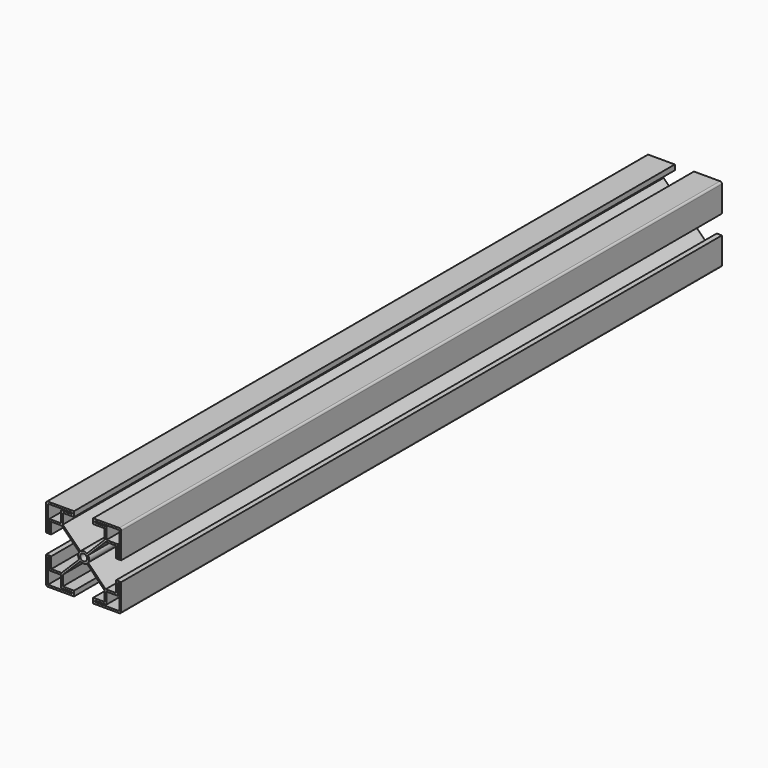
from build123d import *

# Parameters (mm, degrees)
F0_R     = 1.818025
F1_DEPTH = 400


with BuildPart() as f1:
    # F0 (on Front) → F1 (new body)
    with BuildSketch(Plane.XZ):
        with BuildLine():
            Line((-46.860419, 63.459635), (-60.760419, 63.459635))
            ThreePointArc((-60.760419, 63.459635), (-61.467526, 63.166742), (-61.760419, 62.459635))
            Line((-61.760419, 62.459635), (-61.760419, 48.559635))
            Line((-61.760419, 48.559635), (-59.010419, 48.559635))
            Line((-59.010419, 48.559635), (-59.010419, 54.559635))
            Line((-59.010419, 54.559635), (-53.510419, 54.559635))
            Line((-53.510419, 54.559635), (-44.123408, 45.172625))
            ThreePointArc((-44.123408, 45.172625), (-44.678989, 43.459635), (-44.123408, 41.746646))
            Line((-44.123408, 41.746646), (-53.510419, 32.359635))
            Line((-53.510419, 32.359635), (-59.010419, 32.359635))
            Line((-59.010419, 32.359635), (-59.010419, 38.359635))
            Line((-59.010419, 38.359635), (-61.760419, 38.359635))
            Line((-61.760419, 38.359635), (-61.760419, 24.459635))
            ThreePointArc((-61.760419, 24.459635), (-61.467526, 23.752528), (-60.760419, 23.459635))
            Line((-60.760419, 23.459635), (-46.860419, 23.459635))
            Line((-46.860419, 23.459635), (-46.860419, 26.209635))
            Line((-46.860419, 26.209635), (-52.860419, 26.209635))
            Line((-52.860419, 26.209635), (-52.860419, 31.709635))
            Line((-52.860419, 31.709635), (-43.473408, 41.096646))
            ThreePointArc((-43.473408, 41.096646), (-41.760419, 40.541065), (-40.047429, 41.096646))
            Line((-40.047429, 41.096646), (-30.660419, 31.709635))
            Line((-30.660419, 31.709635), (-30.660419, 26.209635))
            Line((-30.660419, 26.209635), (-36.660419, 26.209635))
            Line((-36.660419, 26.209635), (-36.660419, 23.459635))
            Line((-36.660419, 23.459635), (-22.760419, 23.459635))
            ThreePointArc((-22.760419, 23.459635), (-22.053312, 23.752528), (-21.760419, 24.459635))
            Line((-21.760419, 24.459635), (-21.760419, 38.359635))
            Line((-21.760419, 38.359635), (-24.510419, 38.359635))
            Line((-24.510419, 38.359635), (-24.510419, 32.359635))
            Line((-24.510419, 32.359635), (-30.010419, 32.359635))
            Line((-30.010419, 32.359635), (-39.397429, 41.746646))
            ThreePointArc((-39.397429, 41.746646), (-38.841848, 43.459635), (-39.397429, 45.172625))
            Line((-39.397429, 45.172625), (-30.010419, 54.559635))
            Line((-30.010419, 54.559635), (-24.510419, 54.559635))
            Line((-24.510419, 54.559635), (-24.510419, 48.559635))
            Line((-24.510419, 48.559635), (-21.760419, 48.559635))
            Line((-21.760419, 48.559635), (-21.760419, 62.459635))
            ThreePointArc((-21.760419, 62.459635), (-22.053312, 63.166742), (-22.760419, 63.459635))
            Line((-22.760419, 63.459635), (-36.660419, 63.459635))
            Line((-36.660419, 63.459635), (-36.660419, 60.709635))
            Line((-36.660419, 60.709635), (-30.660419, 60.709635))
            Line((-30.660419, 60.709635), (-30.660419, 55.209635))
            Line((-30.660419, 55.209635), (-40.047429, 45.822625))
            ThreePointArc((-40.047429, 45.822625), (-41.760419, 46.378205), (-43.473408, 45.822625))
            Line((-43.473408, 45.822625), (-52.860419, 55.209635))
            Line((-52.860419, 55.209635), (-52.860419, 60.709635))
            Line((-52.860419, 60.709635), (-46.860419, 60.709635))
            Line((-46.860419, 60.709635), (-46.860419, 63.459635))
        make_face()
        Polygon((-60.760419, 37.724261), (-60.010419, 37.724261), (-60.010419, 31.359635), (-53.860419, 31.359635), (-53.860419, 25.209635), (-47.860419, 25.209635), (-47.860419, 24.459635), (-53.860419, 24.459635), (-60.760419, 24.459635), (-60.760419, 31.359635), align=None, mode=Mode.SUBTRACT)
        Polygon((-29.660419, 24.459635), (-35.660419, 24.459635), (-35.660419, 25.209635), (-29.660419, 25.209635), (-29.660419, 31.359635), (-23.510419, 31.359635), (-23.510419, 37.724261), (-22.760419, 37.724261), (-22.760419, 31.359635), (-22.760419, 24.459635), align=None, mode=Mode.SUBTRACT)
        with Locations((-41.760419, 43.459635)):
            Circle(F0_R, mode=Mode.SUBTRACT)
        Polygon((-60.760419, 55.559635), (-60.760419, 62.459635), (-53.860419, 62.459635), (-47.860419, 62.459635), (-47.860419, 61.709635), (-53.860419, 61.709635), (-53.860419, 55.559635), (-60.010419, 55.559635), (-60.010419, 49.195009), (-60.760419, 49.195009), align=None, mode=Mode.SUBTRACT)
        Polygon((-29.660419, 62.459635), (-22.760419, 62.459635), (-22.760419, 55.559635), (-22.760419, 49.195009), (-23.510419, 49.195009), (-23.510419, 55.559635), (-29.660419, 55.559635), (-29.660419, 61.709635), (-35.660419, 61.709635), (-35.660419, 62.459635), align=None, mode=Mode.SUBTRACT)
    extrude(amount=-F1_DEPTH)


solid = f1.part
